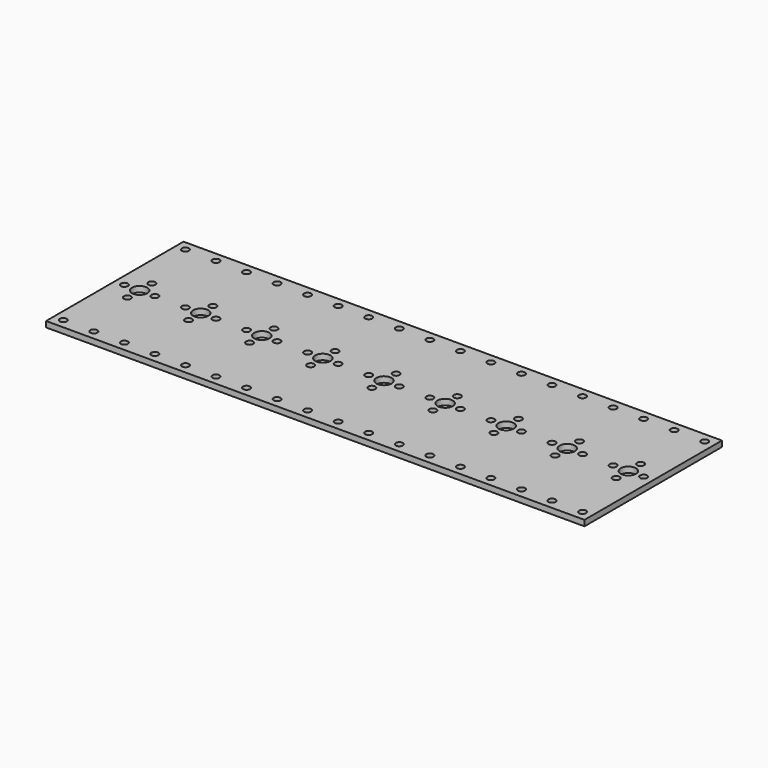
from build123d import *

# Parameters (mm, degrees)
F0_W     = 282
F0_H     = 90
F0_R     = 1.85
F0_R_2   = 4
F1_DEPTH = 3


with BuildPart() as f1:
    # F0 (on Top) → F1 (new body)
    with BuildSketch(Plane.XY):
        Rectangle(F0_W, F0_H)
        with Locations((-136, -40)):
            Circle(F0_R, mode=Mode.SUBTRACT)
        with Locations((-120, -40)):
            Circle(F0_R, mode=Mode.SUBTRACT)
        with Locations((-104, -40)):
            Circle(F0_R, mode=Mode.SUBTRACT)
        with Locations((-88, -40)):
            Circle(F0_R, mode=Mode.SUBTRACT)
        with Locations((-72, -40)):
            Circle(F0_R, mode=Mode.SUBTRACT)
        with Locations((-56, -40)):
            Circle(F0_R, mode=Mode.SUBTRACT)
        with Locations((-40, -40)):
            Circle(F0_R, mode=Mode.SUBTRACT)
        with Locations((-24, -40)):
            Circle(F0_R, mode=Mode.SUBTRACT)
        with Locations((-8, -40)):
            Circle(F0_R, mode=Mode.SUBTRACT)
        with Locations((-128, -8)):
            Circle(F0_R, mode=Mode.SUBTRACT)
        with Locations((-96, -8)):
            Circle(F0_R, mode=Mode.SUBTRACT)
        with Locations((-64, -8)):
            Circle(F0_R, mode=Mode.SUBTRACT)
        with Locations((-32, -8)):
            Circle(F0_R, mode=Mode.SUBTRACT)
        with Locations((8, -40)):
            Circle(F0_R, mode=Mode.SUBTRACT)
        with Locations((24, -40)):
            Circle(F0_R, mode=Mode.SUBTRACT)
        with Locations((40, -40)):
            Circle(F0_R, mode=Mode.SUBTRACT)
        with Locations((56, -40)):
            Circle(F0_R, mode=Mode.SUBTRACT)
        with Locations((72, -40)):
            Circle(F0_R, mode=Mode.SUBTRACT)
        with Locations((88, -40)):
            Circle(F0_R, mode=Mode.SUBTRACT)
        with Locations((104, -40)):
            Circle(F0_R, mode=Mode.SUBTRACT)
        with Locations((120, -40)):
            Circle(F0_R, mode=Mode.SUBTRACT)
        with Locations((136, -40)):
            Circle(F0_R, mode=Mode.SUBTRACT)
        with Locations((0, -8)):
            Circle(F0_R, mode=Mode.SUBTRACT)
        with Locations((32, -8)):
            Circle(F0_R, mode=Mode.SUBTRACT)
        with Locations((64, -8)):
            Circle(F0_R, mode=Mode.SUBTRACT)
        with Locations((96, -8)):
            Circle(F0_R, mode=Mode.SUBTRACT)
        with Locations((128, -8)):
            Circle(F0_R, mode=Mode.SUBTRACT)
        with Locations((-136, 0)):
            Circle(F0_R, mode=Mode.SUBTRACT)
        with Locations((-128, 0)):
            Circle(F0_R_2, mode=Mode.SUBTRACT)
        with Locations((-120, 0)):
            Circle(F0_R, mode=Mode.SUBTRACT)
        with Locations((-128, 8)):
            Circle(F0_R, mode=Mode.SUBTRACT)
        with Locations((-104, 0)):
            Circle(F0_R, mode=Mode.SUBTRACT)
        with Locations((-96, 0)):
            Circle(F0_R_2, mode=Mode.SUBTRACT)
        with Locations((-88, 0)):
            Circle(F0_R, mode=Mode.SUBTRACT)
        with Locations((-72, 0)):
            Circle(F0_R, mode=Mode.SUBTRACT)
        with Locations((-96, 8)):
            Circle(F0_R, mode=Mode.SUBTRACT)
        with Locations((-64, 0)):
            Circle(F0_R_2, mode=Mode.SUBTRACT)
        with Locations((-56, 0)):
            Circle(F0_R, mode=Mode.SUBTRACT)
        with Locations((-40, 0)):
            Circle(F0_R, mode=Mode.SUBTRACT)
        with Locations((-64, 8)):
            Circle(F0_R, mode=Mode.SUBTRACT)
        with Locations((-32, 0)):
            Circle(F0_R_2, mode=Mode.SUBTRACT)
        with Locations((-24, 0)):
            Circle(F0_R, mode=Mode.SUBTRACT)
        with Locations((-8, 0)):
            Circle(F0_R, mode=Mode.SUBTRACT)
        with Locations((-32, 8)):
            Circle(F0_R, mode=Mode.SUBTRACT)
        with Locations((-136, 40)):
            Circle(F0_R, mode=Mode.SUBTRACT)
        with Locations((-120, 40)):
            Circle(F0_R, mode=Mode.SUBTRACT)
        with Locations((-104, 40)):
            Circle(F0_R, mode=Mode.SUBTRACT)
        with Locations((-88, 40)):
            Circle(F0_R, mode=Mode.SUBTRACT)
        with Locations((-72, 40)):
            Circle(F0_R, mode=Mode.SUBTRACT)
        with Locations((-56, 40)):
            Circle(F0_R, mode=Mode.SUBTRACT)
        with Locations((-40, 40)):
            Circle(F0_R, mode=Mode.SUBTRACT)
        with Locations((-24, 40)):
            Circle(F0_R, mode=Mode.SUBTRACT)
        with Locations((-8, 40)):
            Circle(F0_R, mode=Mode.SUBTRACT)
        Circle(F0_R_2, mode=Mode.SUBTRACT)
        with Locations((8, 0)):
            Circle(F0_R, mode=Mode.SUBTRACT)
        with Locations((24, 0)):
            Circle(F0_R, mode=Mode.SUBTRACT)
        with Locations((32, 0)):
            Circle(F0_R_2, mode=Mode.SUBTRACT)
        with Locations((0, 8)):
            Circle(F0_R, mode=Mode.SUBTRACT)
        with Locations((32, 8)):
            Circle(F0_R, mode=Mode.SUBTRACT)
        with Locations((40, 0)):
            Circle(F0_R, mode=Mode.SUBTRACT)
        with Locations((56, 0)):
            Circle(F0_R, mode=Mode.SUBTRACT)
        with Locations((64, 0)):
            Circle(F0_R_2, mode=Mode.SUBTRACT)
        with Locations((64, 8)):
            Circle(F0_R, mode=Mode.SUBTRACT)
        with Locations((72, 0)):
            Circle(F0_R, mode=Mode.SUBTRACT)
        with Locations((88, 0)):
            Circle(F0_R, mode=Mode.SUBTRACT)
        with Locations((96, 0)):
            Circle(F0_R_2, mode=Mode.SUBTRACT)
        with Locations((104, 0)):
            Circle(F0_R, mode=Mode.SUBTRACT)
        with Locations((96, 8)):
            Circle(F0_R, mode=Mode.SUBTRACT)
        with Locations((120, 0)):
            Circle(F0_R, mode=Mode.SUBTRACT)
        with Locations((128, 0)):
            Circle(F0_R_2, mode=Mode.SUBTRACT)
        with Locations((136, 0)):
            Circle(F0_R, mode=Mode.SUBTRACT)
        with Locations((128, 8)):
            Circle(F0_R, mode=Mode.SUBTRACT)
        with Locations((8, 40)):
            Circle(F0_R, mode=Mode.SUBTRACT)
        with Locations((24, 40)):
            Circle(F0_R, mode=Mode.SUBTRACT)
        with Locations((40, 40)):
            Circle(F0_R, mode=Mode.SUBTRACT)
        with Locations((56, 40)):
            Circle(F0_R, mode=Mode.SUBTRACT)
        with Locations((72, 40)):
            Circle(F0_R, mode=Mode.SUBTRACT)
        with Locations((88, 40)):
            Circle(F0_R, mode=Mode.SUBTRACT)
        with Locations((104, 40)):
            Circle(F0_R, mode=Mode.SUBTRACT)
        with Locations((120, 40)):
            Circle(F0_R, mode=Mode.SUBTRACT)
        with Locations((136, 40)):
            Circle(F0_R, mode=Mode.SUBTRACT)
    extrude(amount=F1_DEPTH)


solid = f1.part
